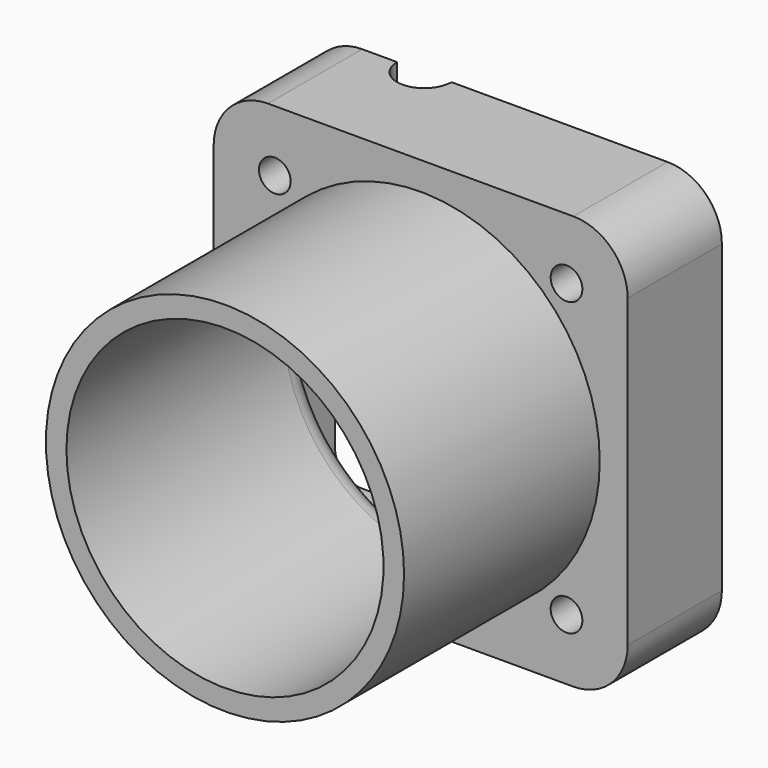
from build123d import *

# Parameters (mm, degrees)
F1_DEPTH  = 40
F2_R      = 1.75
F2_R_2    = 17.5
F3_DEPTH  = 40
F5_DEPTH  = 7
F6_R      = 29.829499
F6_R_2    = 19.768838
F7_DEPTH  = 27
F8_R      = 3
F9_R      = 3
F10_DEPTH = 3


with BuildPart() as f1:
    # F0 (on Front) → F1 (new body)
    with BuildSketch(Plane.XZ):
        with BuildLine():
            Line((16.85, 22.85), (-16.85, 22.85))
            ThreePointArc((-16.85, 22.85), (-21.092641, 21.092641), (-22.85, 16.85))
            Line((-22.85, 16.85), (-22.85, -16.85))
            ThreePointArc((-22.85, -16.85), (-21.092641, -21.092641), (-16.85, -22.85))
            Line((-16.85, -22.85), (16.85, -22.85))
            ThreePointArc((16.85, -22.85), (21.092641, -21.092641), (22.85, -16.85))
            Line((22.85, -16.85), (22.85, 16.85))
            ThreePointArc((22.85, 16.85), (21.092641, 21.092641), (16.85, 22.85))
        make_face()
        with BuildLine():
            ThreePointArc((-19.85, 16.85), (-18.97132, 18.97132), (-16.85, 19.85))
            Line((-16.85, 19.85), (16.85, 19.85))
            ThreePointArc((16.85, 19.85), (18.97132, 18.97132), (19.85, 16.85))
            Line((19.85, 16.85), (19.85, -16.85))
            ThreePointArc((19.85, -16.85), (18.97132, -18.97132), (16.85, -19.85))
            Line((16.85, -19.85), (-16.85, -19.85))
            ThreePointArc((-16.85, -19.85), (-18.97132, -18.97132), (-19.85, -16.85))
            Line((-19.85, -16.85), (-19.85, 16.85))
        make_face(mode=Mode.SUBTRACT)
    extrude(amount=F1_DEPTH)

    # F2 (on face) → F3 (join, through all)
    with BuildSketch(Plane(origin=(0, 0, 0), x_dir=(-1, 0, 0), z_dir=(0, 1, 0))):
        with BuildLine():
            ThreePointArc((-16.85, 19.85), (-18.97132, 18.97132), (-19.85, 16.85))
            Line((-19.85, 16.85), (-19.85, -16.85))
            ThreePointArc((-19.85, -16.85), (-18.97132, -18.97132), (-16.85, -19.85))
            Line((-16.85, -19.85), (16.85, -19.85))
            ThreePointArc((16.85, -19.85), (18.97132, -18.97132), (19.85, -16.85))
            Line((19.85, -16.85), (19.85, 16.85))
            ThreePointArc((19.85, 16.85), (18.97132, 18.97132), (16.85, 19.85))
            Line((16.85, 19.85), (-16.85, 19.85))
        make_face()
        with Locations((-16.1, -16.1)):
            Circle(F2_R, mode=Mode.SUBTRACT)
        with Locations((16.1, -16.1)):
            Circle(F2_R, mode=Mode.SUBTRACT)
        with Locations((-16.1, 16.1)):
            Circle(F2_R, mode=Mode.SUBTRACT)
        Circle(F2_R_2, mode=Mode.SUBTRACT)
        with Locations((16.1, 16.1)):
            Circle(F2_R, mode=Mode.SUBTRACT)
    extrude(amount=-F3_DEPTH)

    # F4 (on face) → F5 (cut)
    with BuildSketch(Plane(origin=(0, 0, 0), x_dir=(-1, 0, 0), z_dir=(0, 1, 0))):
        with BuildLine():
            Line((19.85, -16.85), (19.85, 16.85))
            ThreePointArc((19.85, 16.85), (18.97132, 18.97132), (16.85, 19.85))
            Line((16.85, 19.85), (-16.85, 19.85))
            ThreePointArc((-16.85, 19.85), (-18.97132, 18.97132), (-19.85, 16.85))
            Line((-19.85, 16.85), (-19.85, -16.85))
            ThreePointArc((-19.85, -16.85), (-18.97132, -18.97132), (-16.85, -19.85))
            Line((-16.85, -19.85), (16.85, -19.85))
            ThreePointArc((16.85, -19.85), (18.97132, -18.97132), (19.85, -16.85))
        make_face()
    extrude(amount=-F5_DEPTH, mode=Mode.SUBTRACT)

    # F6 (on face) → F7 (cut)
    with BuildSketch(Plane.XZ.offset(40)):
        Circle(F6_R)
        Circle(F6_R_2, mode=Mode.SUBTRACT)
    extrude(amount=-F7_DEPTH, mode=Mode.SUBTRACT)

    # F8
    f8_edges = [f1.edges().sort_by_distance(p)[0] for p in [
        (17.5, -7, 0),
    ]]
    fillet(f8_edges, radius=F8_R)

    # F9 (on face) → F10 (cut, through all)
    with BuildSketch(Plane.XY.offset(22.85)):
        with Locations((-10, 0)):
            Circle(F9_R)
    extrude(amount=-F10_DEPTH, mode=Mode.SUBTRACT)


solid = f1.part
